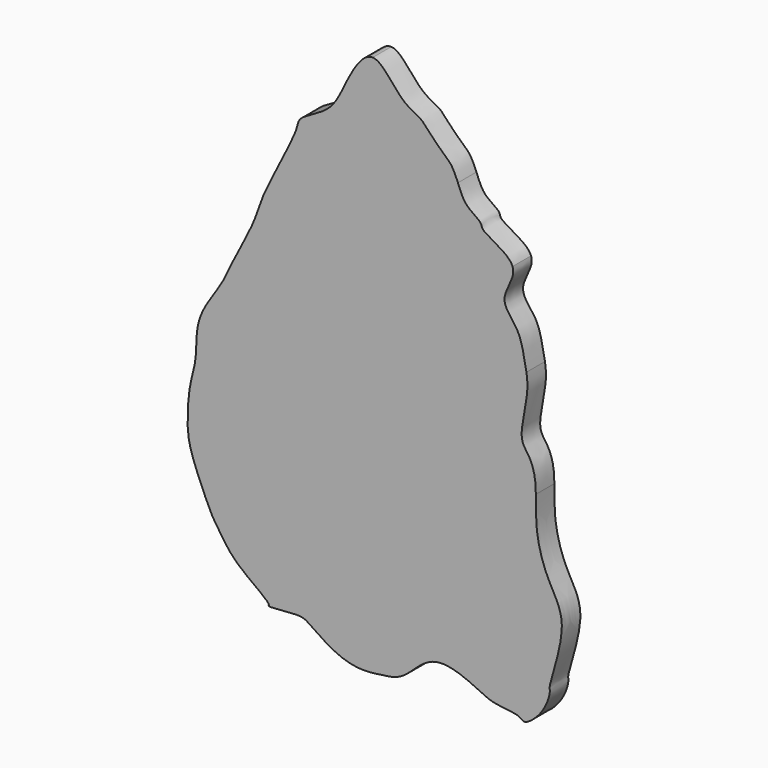
from build123d import *

# Parameters (mm, degrees)
F1_DEPTH = 5.08


with BuildPart() as f1:
    # F0 (on Front) → F1 (new body)
    with BuildSketch(Plane.XZ):
        with BuildLine():
            Line((0, 39.7129952908), (0, 62.7815723419))
            add(Edge.make_bspline(
                [(0, 62.7815723419), (-2.0682044536, 62.8805692383), (-6.1222391946, 56.1637688544), (-7.878058325, 51.3931453291), (-9.9282488227, 49.6412441134)],
                knots=[0, 0, 0, 0, 0.021737396, 0.0434680081, 0.0434680081, 0.0434680081, 0.0434680081], degree=3))
            Line((-9.9282488227, 49.6412441134), (0, 39.7129952908))
        make_face()
        with BuildLine():
            add(Edge.make_bspline(
                [(18.6884682626, 44.6771159768), (18.2321298255, 45.8245791532), (17.3295379439, 47.7635647439), (15.7923174221, 48.9465971409), (11.8356580151, 52.8619191706), (10.6581463642, 54.5546647955), (5.8988382652, 56.156217506), (2.1191561316, 62.680136587), (0, 62.7815723419)],
                knots=[0.9081666351, 0.9081666351, 0.9081666351, 0.9081666351, 0.9218247754, 0.9326866856, 0.9502009968, 0.9610629139, 0.9777270879, 1, 1, 1, 1], degree=3))
            Line((0, 62.7815723419), (0, 39.7129952908))
            Line((0, 39.7129952908), (0, 21.9005476683))
            Line((0, 21.9005476683), (18.6884682626, 44.6771159768))
        make_face()
        with BuildLine():
            Line((0, 15.7683957368), (-21.9005476683, 32.7048189938))
            add(Edge.make_bspline(
                [(-21.9005476683, 32.7048189938), (-22.8328831119, 30.8660968693), (-24.4265620781, 27.7563654274), (-25.963686799, 22.1001372537), (-29.4132205613, 15.9908836531), (-30.6607671082, 13.4323360398)],
                knots=[0.111791312, 0.111791312, 0.111791312, 0.111791312, 0.1294967867, 0.1478773921, 0.171533977, 0.171533977, 0.171533977, 0.171533977], degree=3))
            Line((-30.6607671082, 13.4323360398), (0, -6.1321533285))
            Line((0, -6.1321533285), (0, 8.7602194399))
            Line((0, 8.7602194399), (0, 15.7683957368))
        make_face()
        with BuildLine():
            add(Edge.make_bspline(
                [(30.6607652456, 32.4128102511), (29.8362296224, 34.6503077004), (23.5195114919, 36.9364376041), (24.1007791397, 38.7658335443), (20.1072870302, 40.6398444674), (19.2128811812, 43.35847949), (18.6884682626, 44.6771159768)],
                knots=[0.8476771436, 0.8476771436, 0.8476771436, 0.8476771436, 0.8692153101, 0.8778534776, 0.8924710359, 0.9081666351, 0.9081666351, 0.9081666351, 0.9081666351], degree=3))
            Line((18.6884682626, 44.6771159768), (0, 21.9005476683))
            Line((0, 21.9005476683), (0, 15.7683957368))
            Line((0, 15.7683957368), (0, 8.7602194399))
            Line((0, 8.7602194399), (30.6607652456, 32.4128102511))
        make_face()
        with BuildLine():
            add(Edge.make_bspline(
                [(33.7053641258, 12.9943814881), (33.5862905648, 13.7349523127), (33.0514131611, 16.2628689309), (32.2534257913, 20.9620747877), (26.8885105962, 25.430199522), (31.4231543569, 30.343956409), (30.6607652456, 32.4128102511)],
                knots=[0.7844157869, 0.7844157869, 0.7844157869, 0.7844157869, 0.7916142998, 0.8098474458, 0.8277623417, 0.8476771436, 0.8476771436, 0.8476771436, 0.8476771436], degree=3))
            Line((30.6607652456, 32.4128102511), (0, 8.7602194399))
            Line((0, 8.7602194399), (0, -6.1321533285))
            Line((0, -6.1321533285), (0, -18.1729302168))
            Line((0, -18.1729302168), (33.7053641258, 12.9943814881))
        make_face()
        with BuildLine():
            Line((0, -6.1321533285), (-30.6607671082, 13.4323360398))
            add(Edge.make_bspline(
                [(-30.6607671082, 13.4323360398), (-31.6271124123, 11.4504937772), (-32.8736455439, 8.1555151935), (-37.8583222613, 1.90973463), (-38.4860730629, -2.2239595777), (-38.5790111039, -3.3180701461)],
                knots=[0.171533977, 0.171533977, 0.171533977, 0.171533977, 0.189858287, 0.2130547747, 0.2216569531, 0.2216569531, 0.2216569531, 0.2216569531], degree=3))
            Line((-38.5790111039, -3.3180701461), (0, -30.9527758509))
            Line((0, -30.9527758509), (0, -18.1729302168))
            Line((0, -18.1729302168), (0, -6.1321533285))
        make_face()
        with BuildLine():
            Line((0, -30.9527758509), (-38.5790111039, -3.3180701461))
            add(Edge.make_bspline(
                [(-38.5790111039, -3.3180701461), (-38.7160917143, -4.9318479177), (-38.6431065988, -8.7079204101), (-40.2616175226, -13.2668570506), (-40.7261832137, -20.2506565943), (-40.3480916064, -25.4300192028), (-37.4206221324, -32.3378916746), (-35.2235512693, -37.3912715057), (-33.1091619183, -40.1100058427), (-30.4343520735, -44.7617267917), (-22.2036520694, -49.882367361), (-23.286632186, -50.8652853362), (-16.3954196141, -49.9655927291), (-14.3554765013, -50.5509067249), (-9.3180008915, -54.4461932784), (-4.2011857588, -56.2541774286), (-1.022203096, -56.1226296679), (0, -56.0254334633)],
                knots=[0.2216569531, 0.2216569531, 0.2216569531, 0.2216569531, 0.2343448887, 0.2523439221, 0.271970551, 0.2893538529, 0.3100340781, 0.3277395473, 0.3411737099, 0.3597201701, 0.3820307761, 0.3861155341, 0.4043944323, 0.4167971974, 0.435177807, 0.4543960144, 0.46452067, 0.46452067, 0.46452067, 0.46452067], degree=3))
            Line((0, -56.0254334633), (0, -39.7129952908))
            Line((0, -39.7129952908), (0, -30.9527758509))
        make_face()
        with BuildLine():
            add(Edge.make_bspline(
                [(35.7699368275, -9.9023627365), (35.7580868811, -8.9815609134), (35.6457003569, -6.1486059148), (34.4100512216, -2.7989553663), (31.7043384949, -0.1610961151), (34.2175204773, 8.0737527177), (33.8966224871, 11.8048616564), (33.7053641258, 12.9943814881)],
                knots=[0.7128602952, 0.7128602952, 0.7128602952, 0.7128602952, 0.7201159802, 0.73635833, 0.7500164694, 0.7728533899, 0.7844157869, 0.7844157869, 0.7844157869, 0.7844157869], degree=3))
            Line((33.7053641258, 12.9943814881), (0, -18.1729302168))
            Line((0, -18.1729302168), (0, -30.9527758509))
            Line((0, -30.9527758509), (0, -39.7129952908))
            Line((0, -39.7129952908), (35.7699368275, -9.9023627365))
        make_face()
        with BuildLine():
            add(Edge.make_bspline(
                [(0, -56.0254334633), (0.7288193662, -55.9561336574), (2.668033903, -55.6876841202), (5.0580180903, -55.3479586609), (8.1459753032, -53.6130806028), (13.5746996903, -47.2701051739), (23.3103152898, -51.7269816917), (26.3561289686, -53.3977403333), (32.2685866965, -53.5512599968), (33.2303103008, -55.3200146644), (37.6426068704, -51.6596575661), (39.0750399529, -46.9331599861), (38.3992849053, -45.8577940603), (43.4255571927, -32.6148179562), (38.1006200713, -25.782700465), (35.6039041767, -17.2412992417), (35.7946365145, -11.8216555295), (35.7699368275, -9.9023627365)],
                knots=[0.46452067, 0.46452067, 0.46452067, 0.46452067, 0.4717394361, 0.484783779, 0.4987329524, 0.5192539623, 0.5423663552, 0.5576108878, 0.5750600649, 0.5836982489, 0.6005545936, 0.6169727382, 0.6251422152, 0.6519131115, 0.674186022, 0.6977367545, 0.7128602952, 0.7128602952, 0.7128602952, 0.7128602952], degree=3))
            Line((35.7699368275, -9.9023627365), (0, -39.7129952908))
            Line((0, -39.7129952908), (0, -56.0254334633))
        make_face()
        with BuildLine():
            Line((0, 39.7129952908), (-9.9282488227, 49.6412441134))
            add(Edge.make_bspline(
                [(-9.9282488227, 49.6412441134), (-11.8104423484, 48.0328974113), (-16.3026415651, 46.3507887081), (-16.492466451, 43.6686734105), (-18.4560560226, 39.5388143546), (-20.786351504, 34.9022010119), (-21.9005476683, 32.7048189938)],
                knots=[0.0434680081, 0.0434680081, 0.0434680081, 0.0434680081, 0.0634179676, 0.0746904778, 0.0906322195, 0.111791312, 0.111791312, 0.111791312, 0.111791312], degree=3))
            Line((-21.9005476683, 32.7048189938), (0, 15.7683957368))
            Line((0, 15.7683957368), (0, 21.9005476683))
            Line((0, 21.9005476683), (0, 39.7129952908))
        make_face()
    extrude(amount=F1_DEPTH)


solid = f1.part
